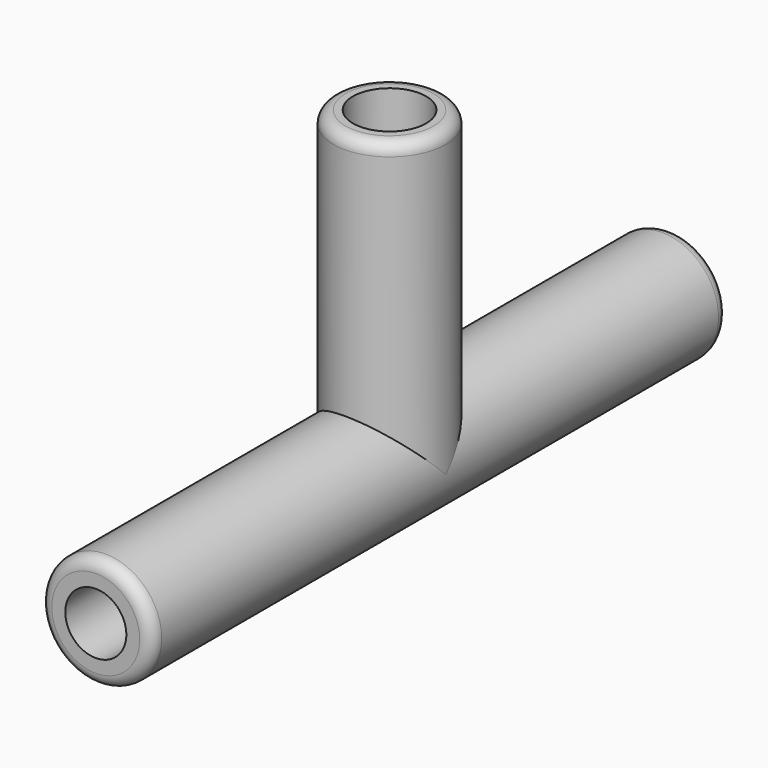
from build123d import *

# Parameters (mm, degrees)
F0_R     = 2.3
F1_DEPTH = 29.5
F3_D     = 2.5
F4_R     = 2.3
F5_DEPTH = 12.4
F6_R     = 1.5
F7_DEPTH = 12.4
F8_R     = 0.5
F9_R     = 0.5
F10_R    = 0.5


with BuildPart() as f1:
    # F0 (on Front) → F1 (new body)
    with BuildSketch(Plane.XZ):
        Circle(F0_R)
    extrude(amount=F1_DEPTH)

    # F3 (through all)
    with Locations(Plane.XZ.offset(29.5)):
        with Locations((0, 0)):
            Hole(F3_D / 2)

    # F9
    f9_edges = [f1.edges().sort_by_distance(p)[0] for p in [
        (-2.3, -29.5, 0),
    ]]
    fillet(f9_edges, radius=F9_R)

    # F10
    f10_edges = [f1.edges().sort_by_distance(p)[0] for p in [
        (-2.3, 0, 0),
    ]]
    fillet(f10_edges, radius=F10_R)


with BuildPart() as f5:
    # F4 (on Top) → F5 (new body)
    with BuildSketch(Plane.XY):
        with Locations((0, -14.4628454)):
            Circle(F4_R)
    extrude(amount=F5_DEPTH)

    # F6 (on Top) → F7 (cut)
    with BuildSketch(Plane.XY):
        with Locations((0, -14.4628454)):
            Circle(F6_R)
    extrude(amount=F7_DEPTH, mode=Mode.SUBTRACT)

    # F8
    f8_edges = [f5.edges().sort_by_distance(p)[0] for p in [
        (-2.3, -14.462845, 12.4),
    ]]
    fillet(f8_edges, radius=F8_R)


solid = Compound([f1.part, f5.part])
